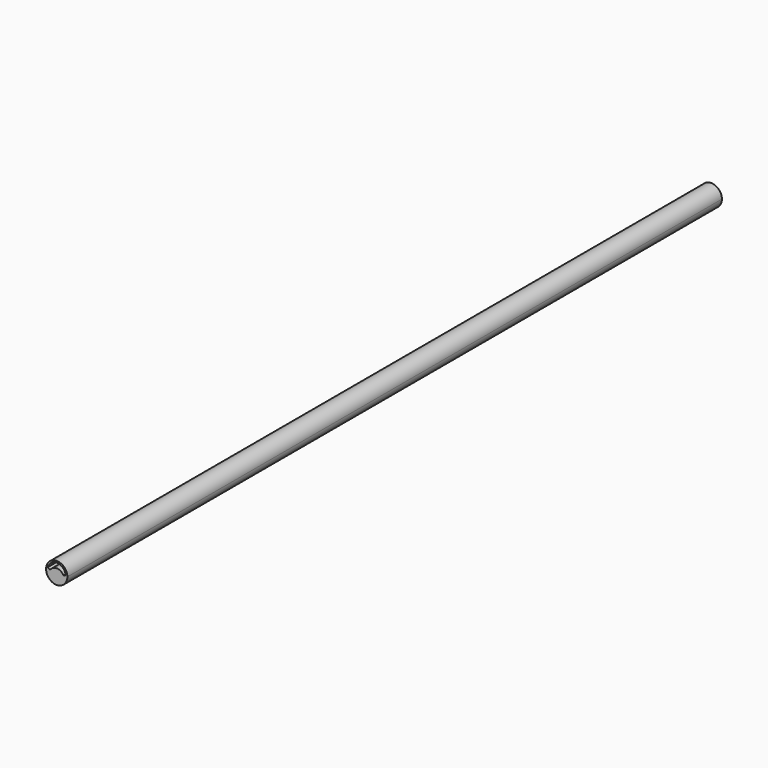
from build123d import *

# Parameters (mm, degrees)
F1_DEPTH = 25.4


with BuildPart() as f1:
    # F0 (on Front) → F1 (new body)
    with BuildSketch(Plane.XZ):
        with BuildLine():
            ThreePointArc((-1.172683, -0.137083), (-0.939196, -0.04037), (-0.842483, 0.193117))
            ThreePointArc((-0.842483, 0.193117), (-1.406169, 0.426604), (-1.172683, -0.137083))
        make_face()
        with BuildLine():
            ThreePointArc((-0.956783, 0.078817), (-1.020018, -0.073847), (-1.172683, -0.137083))
            ThreePointArc((-1.172683, -0.137083), (-1.325347, 0.231481), (-0.956783, 0.078817))
        make_face(mode=Mode.SUBTRACT)
        with BuildLine():
            ThreePointArc((-0.895942, 0.231579), (-0.920888, 0.201001), (-0.959079, 0.191064))
            ThreePointArc((-0.959079, 0.191064), (-1.154794, 0.319453), (-1.367341, 0.221413))
            ThreePointArc((-1.367341, 0.221413), (-1.413554, 0.2278), (-1.442931, 0.26404))
            ThreePointArc((-1.442931, 0.26404), (-1.15613, 0.472026), (-0.895942, 0.231579))
        make_face(mode=Mode.SUBTRACT)
        with BuildLine():
            ThreePointArc((-0.956783, 0.078817), (-1.325347, 0.231481), (-1.172683, -0.137083))
            ThreePointArc((-1.172683, -0.137083), (-1.020018, -0.073847), (-0.956783, 0.078817))
        make_face()
    extrude(amount=F1_DEPTH)


solid = f1.part
